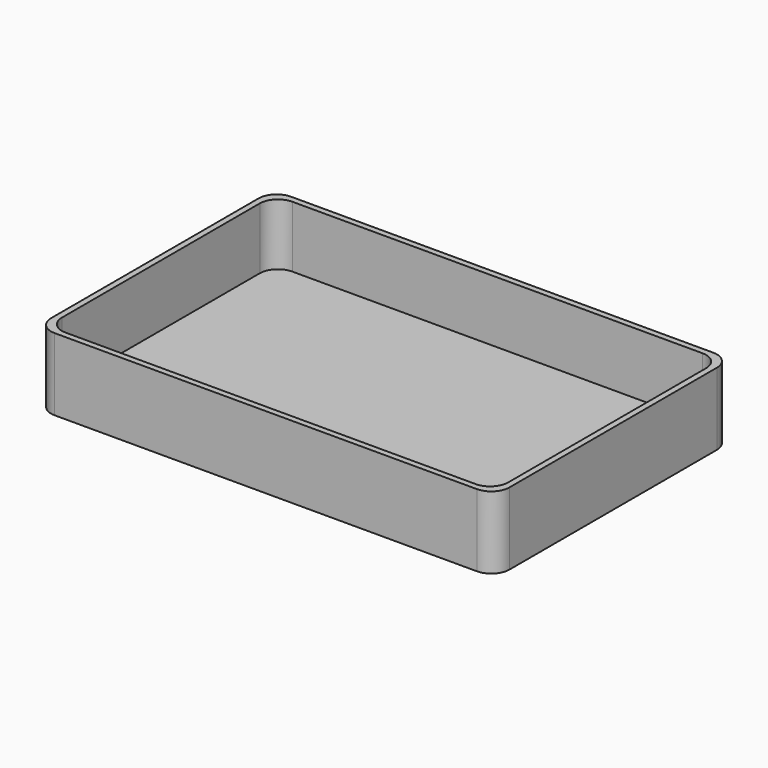
from build123d import *

# Parameters (mm, degrees)
F0_W     = 96.52
F0_H     = 62.23
F1_DEPTH = 15.24
F2_R     = 3.81
F3_R     = 3.81
F4_R     = 3.81
F5_R     = 3.81
F6_W     = 93.98
F6_H     = 59.69
F7_DEPTH = 12.954
F8_R     = 3.81
F9_R     = 3.81


with BuildPart() as f1:
    # F0 (on Top) → F1 (new body)
    with BuildSketch(Plane.XY):
        with Locations((29.339396, 19.943792)):
            Rectangle(F0_W, F0_H)
    extrude(amount=F1_DEPTH)

    # F2
    f2_edges = [f1.edges().sort_by_distance(p)[0] for p in [
        (-18.920604, -11.171208, 7.62),
    ]]
    fillet(f2_edges, radius=F2_R)

    # F3
    f3_edges = [f1.edges().sort_by_distance(p)[0] for p in [
        (77.599396, -11.171208, 7.62),
    ]]
    fillet(f3_edges, radius=F3_R)

    # F4
    f4_edges = [f1.edges().sort_by_distance(p)[0] for p in [
        (77.599396, 51.058792, 7.62),
    ]]
    fillet(f4_edges, radius=F4_R)

    # F5
    f5_edges = [f1.edges().sort_by_distance(p)[0] for p in [
        (-18.920604, 51.058792, 7.62),
    ]]
    fillet(f5_edges, radius=F5_R)

    # F6 (on face) → F7 (cut)
    with BuildSketch(Plane.XY.offset(15.24)):
        with Locations((29.339396, 19.943792)):
            Rectangle(F6_W, F6_H)
    extrude(amount=-F7_DEPTH, mode=Mode.SUBTRACT)

    # F8
    f8_edges = [f1.edges().sort_by_distance(p)[0] for p in [
        (-17.650604, 49.788792, 8.763),
    ]]
    fillet(f8_edges, radius=F8_R)

    # F9
    f9_edges = [f1.edges().sort_by_distance(p)[0] for p in [
        (76.329396, 49.788792, 8.763),
        (-17.650604, -9.901208, 8.763),
        (76.329396, -9.901208, 8.763),
    ]]
    fillet(f9_edges, radius=F9_R)


solid = f1.part
